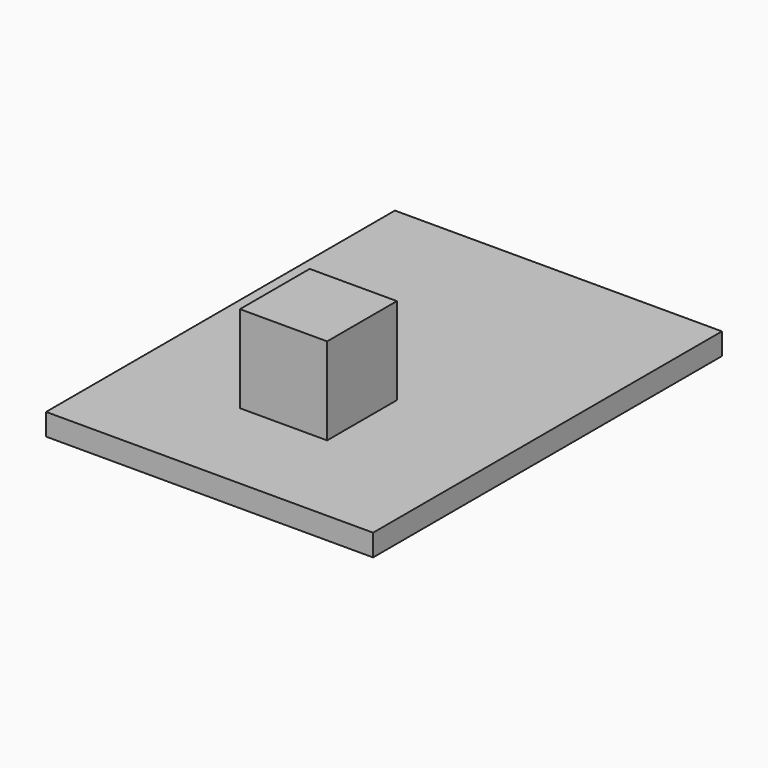
from build123d import *

# Parameters (mm, degrees)
F0_W     = 20
F0_H     = 20
F1_DEPTH = 20
F2_W     = 75
F2_H     = 100
F3_DEPTH = 5


with BuildPart() as f1:
    # F0 (on Front) → F1 (new body)
    with BuildSketch(Plane.XZ):
        with Locations((-8.332358, 16.594542)):
            Rectangle(F0_W, F0_H)
    extrude(amount=F1_DEPTH)


with BuildPart() as f3:
    # F2 (on Top) → F3 (new body)
    with BuildSketch(Plane.XY):
        with Locations((-14.962016, 17.089626)):
            Rectangle(F2_W, F2_H)
    extrude(amount=-F3_DEPTH)


solid = Compound([f1.part, f3.part])
